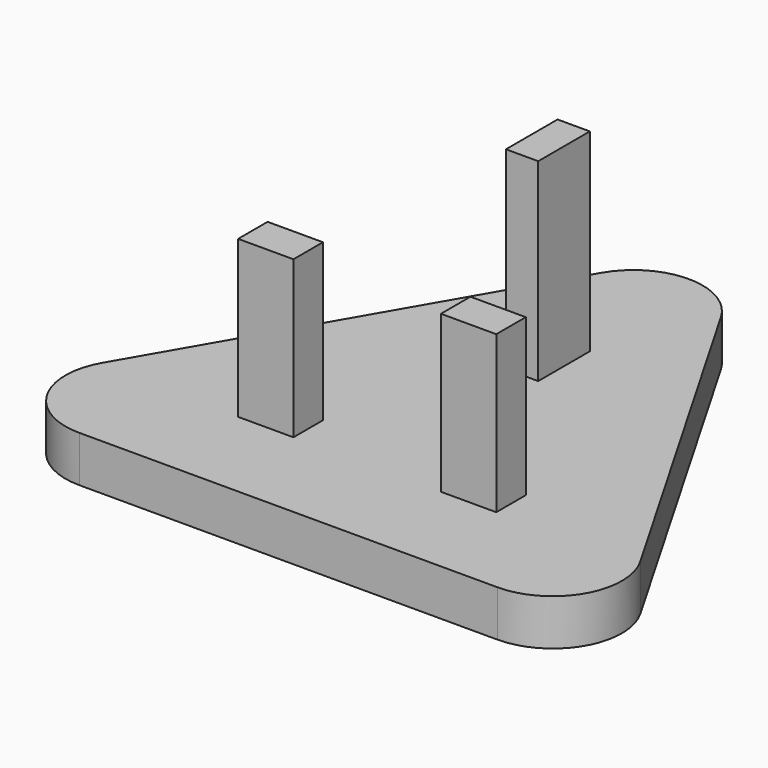
from build123d import *

# Parameters (mm, degrees)
F1_DEPTH  = 5
F2_R      = 7.5
F3_W      = 6
F3_H      = 4
F3_W_2    = 3.5
F3_H_2    = 7
F4_DEPTH  = 17
F4_FACE_W = 3.5
F4_FACE_H = 7
F5_DEPTH  = 4


with BuildPart() as f1:
    # F0 (on Top) → F1 (new body)
    with BuildSketch(Plane.XY):
        Polygon((-35.669873, -20.594011), (35.669873, -20.594011), (0, 41.188022), align=None)
    extrude(amount=F1_DEPTH)

    # F2
    f2_edges = [f1.edges().sort_by_distance(p)[0] for p in [
        (35.669873, -20.594011, 2.5),
        (0, 41.188022, 2.5),
        (-35.669873, -20.594011, 2.5),
    ]]
    fillet(f2_edges, radius=F2_R)

    # F3 (on face) → F4 (join)
    with BuildSketch(Plane.XY.offset(5)):
        with Locations((-11, -7.906166)):
            Rectangle(F3_W, F3_H)
        with Locations((11, -7.906166)):
            Rectangle(F3_W, F3_H)
        with Locations((0, 14.593834)):
            Rectangle(F3_W_2, F3_H_2)
    extrude(amount=F4_DEPTH)

    # F4_face (on face) → F5 (join)
    with BuildSketch(Plane(origin=(0, 14.593834, 22), x_dir=(1, 0, 0), z_dir=(0, 0, 1))):
        Rectangle(F4_FACE_W, F4_FACE_H)
    extrude(amount=F5_DEPTH)


solid = f1.part
